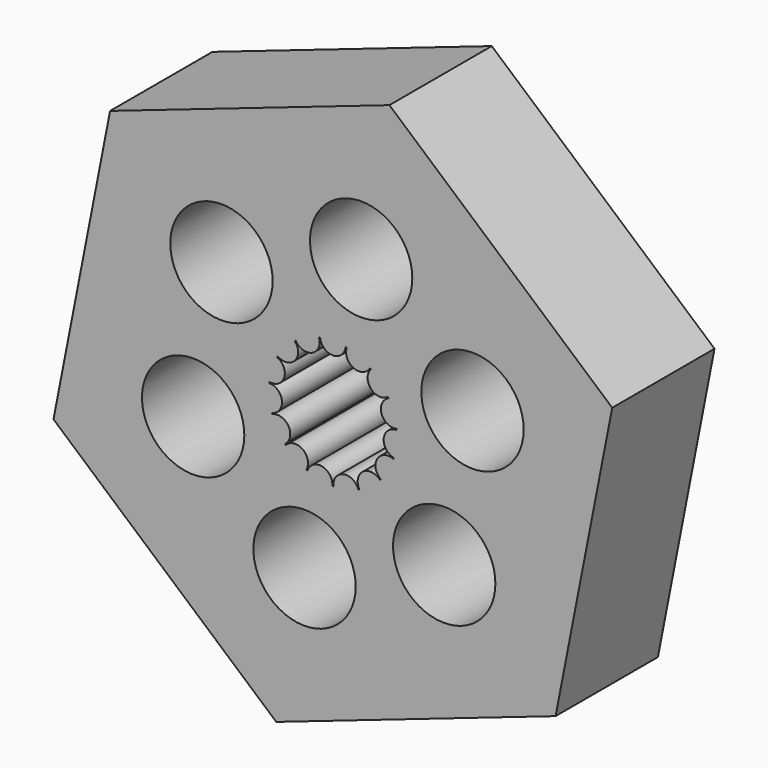
from build123d import *

# Parameters (mm, degrees)
F1_DEPTH = 12.5
F2_R     = 10
F3_DEPTH = 25
F5_DEPTH = 25


with BuildPart() as f1:
    # F0 (on Front) → F1 (new body, symmetric)
    with BuildSketch(Plane.XZ):
        Polygon((-54.605159, -18.751266), (-11.063506, -56.665088), (43.541652, -37.913821), (54.605159, 18.751266), (11.063506, 56.665088), (-43.541652, 37.913821), align=None)
    extrude(amount=F1_DEPTH, both=True)

    # F2 (on face) → F3 (cut)
    with BuildSketch(Plane.XZ.offset(12.5)):
        with Locations((5.531753, 28.332544)):
            Circle(F2_R)
        with Locations((27.302579, 9.375633)):
            Circle(F2_R)
        with Locations((21.770826, -18.956911)):
            Circle(F2_R)
        with Locations((-5.531753, -28.332544)):
            Circle(F2_R)
        with Locations((-27.302579, -9.375633)):
            Circle(F2_R)
        with Locations((-21.770826, 18.956911)):
            Circle(F2_R)
    extrude(amount=-F3_DEPTH, mode=Mode.SUBTRACT)

    # F4 (on face) → F5 (cut)
    with BuildSketch(Plane.XZ.offset(12.5)):
        with BuildLine():
            ThreePointArc((2.487469, 12.25), (0, 10), (-2.487469, 12.25))
            ThreePointArc((-2.487469, 12.25), (-2.598896, 12.226845), (-2.710108, 12.202676))
            ThreePointArc((-2.710108, 12.202676), (-4.067366, 9.135455), (-7.254939, 10.179187))
            ThreePointArc((-7.254939, 10.179187), (-7.347316, 10.112712), (-7.439083, 10.045399))
            ThreePointArc((-7.439083, 10.045399), (-7.431448, 6.691306), (-10.767965, 6.348301))
            ThreePointArc((-10.767965, 6.348301), (-10.825318, 6.25), (-10.881772, 6.151181))
            ThreePointArc((-10.881772, 6.151181), (-9.510565, 3.09017), (-12.419112, 1.419735))
            ThreePointArc((-12.419112, 1.419735), (-12.431524, 1.306606), (-12.442904, 1.193368))
            ThreePointArc((-12.442904, 1.193368), (-9.945219, -1.045285), (-11.922882, -3.754316))
            ThreePointArc((-11.922882, -3.754316), (-11.888206, -3.862712), (-11.852546, -3.970789))
            ThreePointArc((-11.852546, -3.970789), (-8.660254, -5), (-9.365077, -8.279211))
            ThreePointArc((-9.365077, -8.279211), (-9.28931, -8.364133), (-9.212774, -8.448361))
            ThreePointArc((-9.212774, -8.448361), (-5.877853, -8.09017), (-5.187965, -11.372556))
            ThreePointArc((-5.187965, -11.372556), (-5.084208, -11.419318), (-4.98003, -11.465134))
            ThreePointArc((-4.98003, -11.465134), (-2.079117, -9.781476), (-0.113807, -12.499482))
            ThreePointArc((-0.113807, -12.499482), (0, -12.5), (0.113807, -12.499482))
            ThreePointArc((0.113807, -12.499482), (2.079117, -9.781476), (4.98003, -11.465134))
            ThreePointArc((4.98003, -11.465134), (5.084208, -11.419318), (5.187965, -11.372556))
            ThreePointArc((5.187965, -11.372556), (5.877853, -8.09017), (9.212774, -8.448361))
            ThreePointArc((9.212774, -8.448361), (9.28931, -8.364133), (9.365077, -8.279211))
            ThreePointArc((9.365077, -8.279211), (8.660254, -5), (11.852545, -3.970789))
            ThreePointArc((11.852545, -3.970789), (11.888206, -3.862712), (11.922882, -3.754316))
            ThreePointArc((11.922882, -3.754316), (9.945219, -1.045285), (12.442904, 1.193368))
            ThreePointArc((12.442904, 1.193368), (12.431524, 1.306606), (12.419112, 1.419735))
            ThreePointArc((12.419112, 1.419735), (9.510565, 3.09017), (10.881772, 6.151181))
            ThreePointArc((10.881772, 6.151181), (10.825318, 6.25), (10.767965, 6.348301))
            ThreePointArc((10.767965, 6.348301), (7.431448, 6.691306), (7.439083, 10.045399))
            ThreePointArc((7.439083, 10.045399), (7.347316, 10.112712), (7.25494, 10.179187))
            ThreePointArc((7.25494, 10.179187), (4.067366, 9.135455), (2.710108, 12.202676))
            ThreePointArc((2.710108, 12.202676), (2.598896, 12.226845), (2.487469, 12.25))
        make_face()
    extrude(amount=-F5_DEPTH, mode=Mode.SUBTRACT)


solid = f1.part
